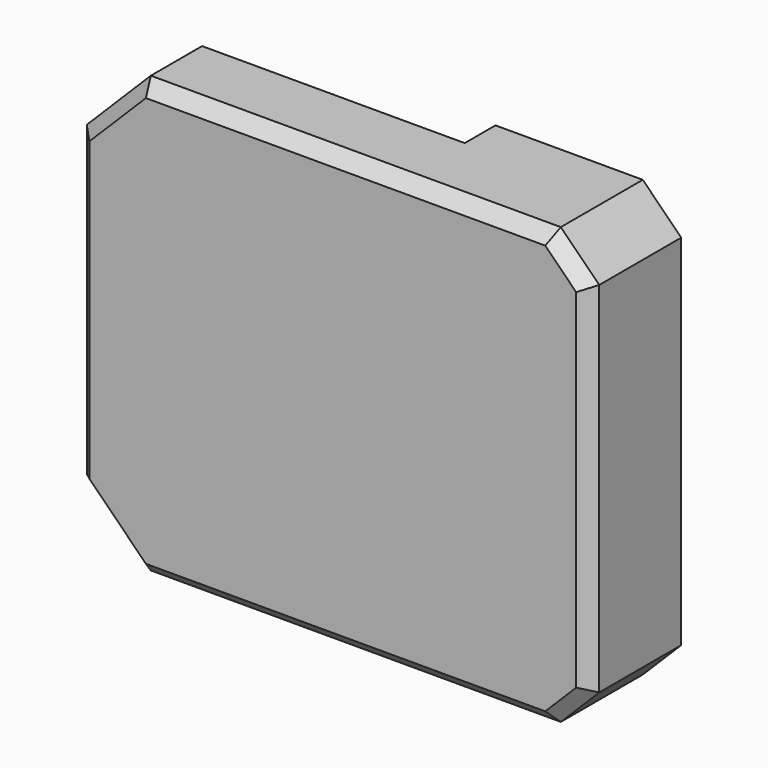
from build123d import *

# Parameters (mm, degrees)
CYLINDER016013_R                  = 1.9
CYLINDER016013_DEPTH              = 10
CYLINDER016014_R                  = 1.9
CYLINDER016014_DEPTH              = 10
BOX018_W                          = 5.5
BOX018_H                          = 3
BOX018_DEPTH                      = 20
BOX016_W                          = 25.5
BOX016_H                          = 3
BOX016_DEPTH                      = 34
BOX017_W                          = 40
BOX017_H                          = 9
BOX017_DEPTH                      = 34
CHAMFER016016008004017002011_SIZE = 5
CHAMFER016016008004017002012_SIZE = 3
CHAMFER016016008004017002013_SIZE = 1


with BuildPart() as cylinder029:
    # Cylinder016013 → Cylinder016013 (new body)
    with BuildSketch(Plane(origin=(-15, 0, 3.5), x_dir=(1, 0, 0), z_dir=(0, 1, 0))):
        Circle(CYLINDER016013_R)
    extrude(amount=CYLINDER016013_DEPTH)


with BuildPart() as fusion018002:
    # Cylinder016014 → Cylinder016014 (new body)
    with BuildSketch(Plane(origin=(-15, 0, 30.5), x_dir=(1, 0, 0), z_dir=(0, 1, 0))):
        Circle(CYLINDER016014_R)
    extrude(amount=CYLINDER016014_DEPTH)

    # Fusion018002: union Cylinder029
    add(cylinder029.part)


with BuildPart() as fusion018002_1:
    # Fusion018002 placement: moved
    add(fusion018002.part.moved(Location((0, -8, 0))))


with BuildPart() as cube018:
    # Box018 → Box018 (new body)
    with BuildSketch(Plane(origin=(-17.75, -7, 7), x_dir=(1, 0, 0), z_dir=(0, 0, 1))):
        with Locations((2.75, 1.5)):
            Rectangle(BOX018_W, BOX018_H)
    extrude(amount=BOX018_DEPTH)


with BuildPart() as cube016:
    # Box016 → Box016 (new body)
    with BuildSketch(Plane(origin=(-30, -4, 0), x_dir=(1, 0, 0), z_dir=(0, 0, 1))):
        with Locations((12.75, 1.5)):
            Rectangle(BOX016_W, BOX016_H)
    extrude(amount=BOX016_DEPTH)


with BuildPart() as obj1:
    # Box017 → Box017 (new body)
    with BuildSketch(Plane(origin=(-30, -10, 0), x_dir=(1, 0, 0), z_dir=(0, 0, 1))):
        with Locations((20, 4.5)):
            Rectangle(BOX017_W, BOX017_H)
    extrude(amount=BOX017_DEPTH)

    # Cut010011008003: cut Cube016
    add(cube016.part, mode=Mode.SUBTRACT)

    # Cut010011008009003016015: cut Cube018
    add(cube018.part, mode=Mode.SUBTRACT)

    # Cut010011008009003016016: cut Fusion018002
    add(fusion018002_1.part, mode=Mode.SUBTRACT)

    # Chamfer016016008004017002011
    chamfer016016008004017002011_edges = [obj1.edges().sort_by_distance(p)[0] for p in [
        (-30, -7, 34),
        (-30, -7, 0),
    ]]
    chamfer(chamfer016016008004017002011_edges, length=CHAMFER016016008004017002011_SIZE)

    # Chamfer016016008004017002012
    chamfer016016008004017002012_edges = [obj1.edges().sort_by_distance(p)[0] for p in [
        (10, -5.5, 0),
        (10, -5.5, 34),
    ]]
    chamfer(chamfer016016008004017002012_edges, length=CHAMFER016016008004017002012_SIZE)

    # Chamfer016016008004017002013
    chamfer016016008004017002013_edges = [obj1.edges().sort_by_distance(p)[0] for p in [
        (-9, -10, 0),
        (-27.5, -10, 2.5),
        (-30, -10, 17),
        (-27.5, -10, 31.5),
        (-9, -10, 34),
        (8.5, -10, 32.5),
        (10, -10, 17),
        (8.5, -10, 1.5),
    ]]
    chamfer(chamfer016016008004017002013_edges, length=CHAMFER016016008004017002013_SIZE)


solid = obj1.part
